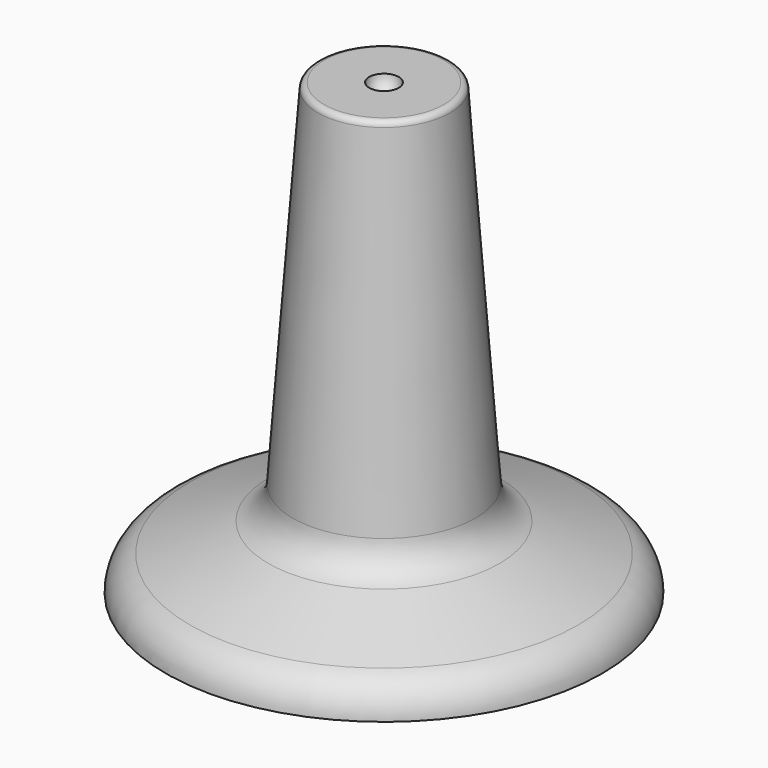
from build123d import *


with BuildPart() as f1:
    # F0 (on Front) → F1 (revolve)
    with BuildSketch(Plane.XZ):
        with BuildLine():
            Line((0, 14.7), (0, 0))
            Line((0, 0), (7.38, 0))
            ThreePointArc((7.38, 0), (7.15493, 0.715555), (6.56077, 1.17343))
            Line((6.56077, 1.17343), (3.909909, 2.14657))
            ThreePointArc((3.909909, 2.14657), (3.342658, 2.567369), (3.094036, 3.228452))
            Line((3.094036, 3.228452), (2.228512, 15.014648))
            ThreePointArc((2.228512, 15.014648), (2.165193, 15.146509), (2.029049, 15.2))
            Line((2.029049, 15.2), (0.5, 15.2))
            ThreePointArc((0.5, 15.2), (0.353553, 14.846447), (0, 14.7))
        make_face()
    revolve(axis=Axis((0, 0, 7.35), (0, 0, 1)))


solid = f1.part
